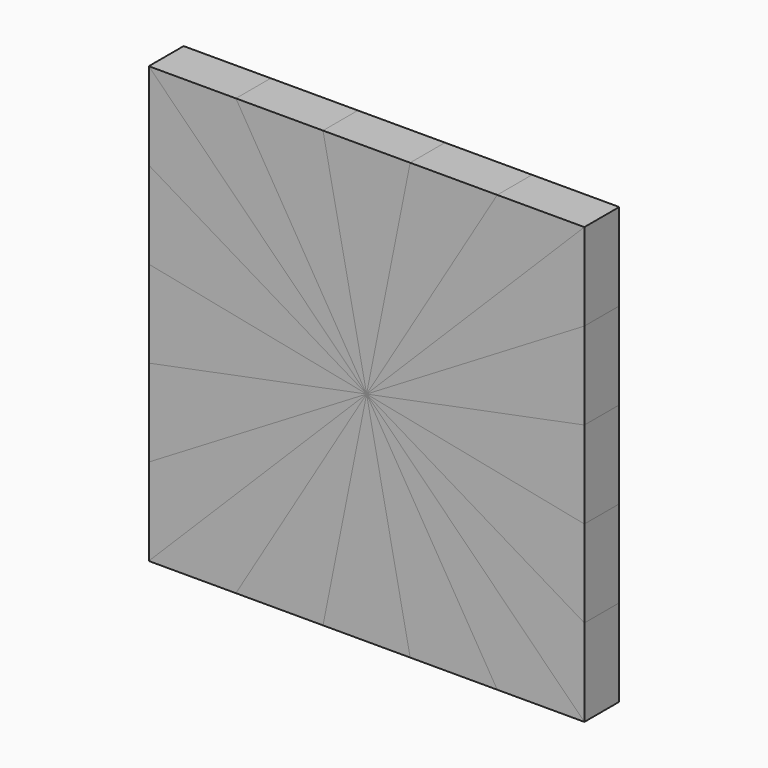
from build123d import *

# Parameters (mm, degrees)
F1_DEPTH  = 25.4
F2_DEPTH  = 25.4
F3_DEPTH  = 25.4
F4_DEPTH  = 25.4
F5_DEPTH  = 25.4
F6_DEPTH  = 25.4
F7_DEPTH  = 25.4
F8_DEPTH  = 25.4
F9_DEPTH  = 25.4
F10_DEPTH = 25.4
F11_DEPTH = 25.4
F12_DEPTH = 25.4


with BuildPart() as f1:
    # F0 (on Front) → F1 (new body)
    with BuildSketch(Plane.XZ):
        Polygon((-127, 76.2), (0, 0), (-127, 127), align=None)
    extrude(amount=F1_DEPTH)


with BuildPart() as f2:
    # F0 (on Front) → F2 (new body)
    with BuildSketch(Plane.XZ):
        Polygon((0, 0), (-76.2, 127), (-127, 127), align=None)
    extrude(amount=F2_DEPTH)


with BuildPart() as f3:
    # F0 (on Front) → F3 (new body)
    with BuildSketch(Plane.XZ):
        Polygon((0, 0), (-25.4, 127), (-76.2, 127), align=None)
        Polygon((25.4, -127), (0, 0), (-25.4, -127), (0, -127), align=None)
    extrude(amount=F3_DEPTH)


with BuildPart() as f4:
    # F0 (on Front) → F4 (new body)
    with BuildSketch(Plane.XZ):
        Polygon((25.4, 127), (0, 127), (-25.4, 127), (0, 0), align=None)
        Polygon((-25.4, -127), (0, 0), (-76.2, -127), align=None)
    extrude(amount=F4_DEPTH)


with BuildPart() as f5:
    # F0 (on Front) → F5 (new body)
    with BuildSketch(Plane.XZ):
        Polygon((76.2, 127), (25.4, 127), (0, 0), align=None)
        Polygon((-76.2, -127), (0, 0), (-127, -127), align=None)
    extrude(amount=F5_DEPTH)


with BuildPart() as f6:
    # F0 (on Front) → F6 (new body)
    with BuildSketch(Plane.XZ):
        Polygon((-127, -127), (0, 0), (-127, -76.2), align=None)
    extrude(amount=F6_DEPTH)


with BuildPart() as f7:
    # F0 (on Front) → F7 (new body)
    with BuildSketch(Plane.XZ):
        Polygon((76.2, 127), (0, 0), (127, 127), align=None)
        Polygon((-127, -76.2), (0, 0), (-127, -25.4), align=None)
    extrude(amount=F7_DEPTH)


with BuildPart() as f8:
    # F0 (on Front) → F8 (new body)
    with BuildSketch(Plane.XZ):
        Polygon((127, 127), (0, 0), (127, 76.2), align=None)
        Polygon((76.2, -127), (0, 0), (25.4, -127), align=None)
    extrude(amount=F8_DEPTH)


with BuildPart() as f9:
    # F0 (on Front) → F9 (new body)
    with BuildSketch(Plane.XZ):
        Polygon((127, 76.2), (0, 0), (127, 25.4), align=None)
        Polygon((127, -127), (0, 0), (76.2, -127), align=None)
    extrude(amount=F9_DEPTH)


with BuildPart() as f10:
    # F0 (on Front) → F10 (new body)
    with BuildSketch(Plane.XZ):
        Polygon((127, 25.4), (0, 0), (127, -25.4), (127, 0), align=None)
        Polygon((-127, -25.4), (0, 0), (-127, 25.4), (-127, 0), align=None)
    extrude(amount=F10_DEPTH)


with BuildPart() as f11:
    # F0 (on Front) → F11 (new body)
    with BuildSketch(Plane.XZ):
        Polygon((127, -76.2), (0, 0), (127, -127), align=None)
        Polygon((-127, 25.4), (0, 0), (-127, 76.2), align=None)
    extrude(amount=F11_DEPTH)


with BuildPart() as f12:
    # F0 (on Front) → F12 (new body)
    with BuildSketch(Plane.XZ):
        Polygon((127, -25.4), (0, 0), (127, -76.2), align=None)
    extrude(amount=F12_DEPTH)


solid = Compound([f1.part, f2.part, f3.part, f4.part, f5.part, f6.part, f7.part, f8.part, f9.part, f10.part, f11.part, f12.part])
